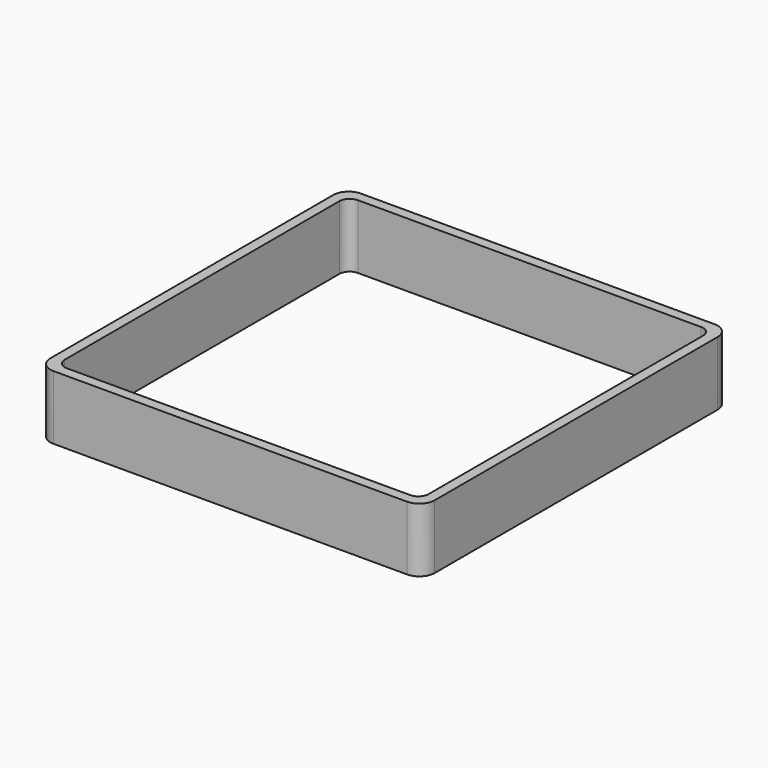
from build123d import *

# Parameters (mm, degrees)
EXTRUDE_DEPTH = 50


with BuildPart() as part:
    # Sketch → Extrude (new body)
    with BuildSketch(Plane.XY):
        with BuildLine():
            Line((-138, 150), (138, 150))
            ThreePointArc((150, 138), (146.485281, 146.485281), (138, 150))
            Line((150, 138), (150, -138))
            ThreePointArc((138, -150), (146.485281, -146.485281), (150, -138))
            Line((138, -150), (-138, -150))
            ThreePointArc((-150, -138), (-146.485281, -146.485281), (-138, -150))
            Line((-150, -138), (-150, 138))
            ThreePointArc((-138, 150), (-146.485281, 146.485281), (-150, 138))
        make_face()
        with BuildLine():
            Line((-134, 142), (134, 142))
            ThreePointArc((142, 134), (139.656854, 139.656854), (134, 142))
            Line((142, 134), (142, -134))
            ThreePointArc((134, -142), (139.656854, -139.656854), (142, -134))
            Line((134, -142), (-134, -142))
            ThreePointArc((-142, -134), (-139.656854, -139.656854), (-134, -142))
            Line((-142, -134), (-142, 134))
            ThreePointArc((-134, 142), (-139.656854, 139.656854), (-142, 134))
        make_face(mode=Mode.SUBTRACT)
    extrude(amount=EXTRUDE_DEPTH)


solid = part.part
